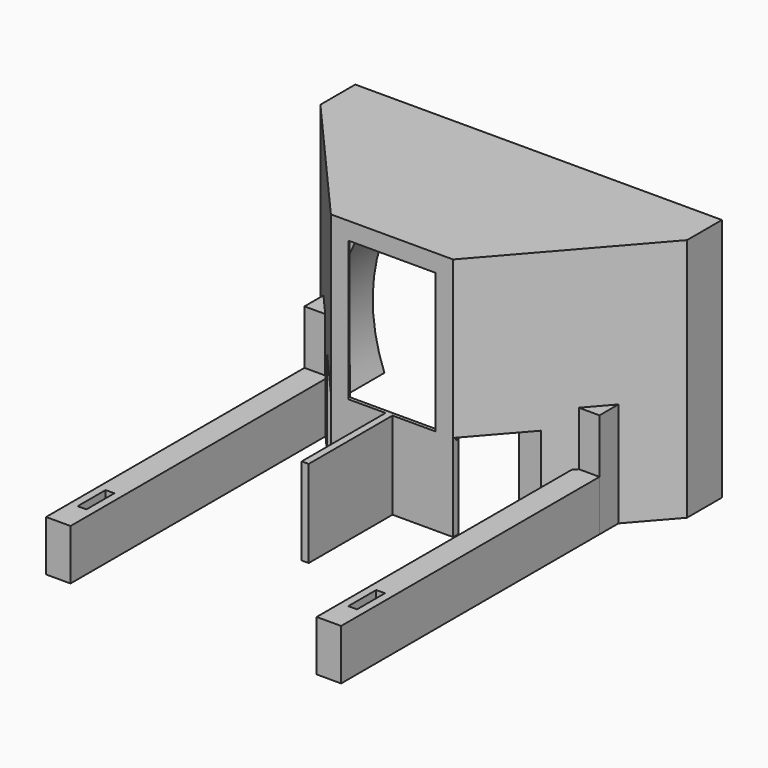
from build123d import *

# Parameters (mm, degrees)
PAD_DEPTH       = 28
SKETCH001_R     = 19
POCKET_DEPTH    = 5
POCKET001_DEPTH = 26
SKETCH003_W     = 30
SKETCH003_H     = 6
POCKET002_DEPTH = 10
SKETCH004_W     = 2.8
SKETCH004_H     = 40
PAD001_DEPTH    = 5.8
SKETCH005_W     = 2.722469
SKETCH005_H     = 3
SKETCH005_W_2   = 2.715425
PAD002_DEPTH    = 12
SKETCH006_R     = 1.6
POCKET003_DEPTH = 5
SKETCH007_W     = 1
SKETCH007_H     = 4
POCKET004_DEPTH = 6
PAD003_DEPTH    = 10
SKETCH009_W     = 14.845783
SKETCH009_H     = 0.4
POCKET005_DEPTH = 0.4


with BuildPart() as part:
    # Sketch → Pad (new body)
    with BuildSketch(Plane(origin=(0, 0, 0), x_dir=(1, 0, 0), z_dir=(0, 0, -1))):
        Polygon((-52.483848, 11.054775), (-10.483848, 11.054775), (-10.483848, 16.054775), (-24.483848, 32.054775), (-38.483848, 32.054775), (-52.483848, 16.054775), align=None)
    extrude(amount=PAD_DEPTH)

    # Sketch001 → Pocket (cut)
    with BuildSketch(Plane(origin=(0, -11.054775, 0), x_dir=(1, 0, 0), z_dir=(0, 1, 0))):
        with Locations((-31.483848, 21)):
            Circle(SKETCH001_R)
    extrude(amount=-POCKET_DEPTH, mode=Mode.SUBTRACT)

    # Sketch002 → Pocket001 (cut)
    with BuildSketch(Plane(origin=(0, 0, -28), x_dir=(1, 0, 0), z_dir=(0, 0, -1))):
        Polygon((-49.14737, 16.054775), (-36.483848, 32.054775), (-26.483848, 32.054775), (-13.820326, 16.054775), align=None)
    extrude(amount=-POCKET001_DEPTH, mode=Mode.SUBTRACT)

    # Sketch003 → Pocket002 (cut)
    with BuildSketch(Plane(origin=(0, 0, -28), x_dir=(1, 0, 0), z_dir=(0, 0, -1))):
        with Locations((-31.483848, 29.054775)):
            Rectangle(SKETCH003_W, SKETCH003_H)
    extrude(amount=-POCKET002_DEPTH, mode=Mode.SUBTRACT)

    # Sketch004 → Pad001 (new body)
    with BuildSketch(Plane(origin=(0, 0, -28), x_dir=(1, 0, 0), z_dir=(0, 0, -1))):
        with Locations((-46.98737, 40.454775)):
            Rectangle(SKETCH004_W, SKETCH004_H)
        with Locations((-15.98737, 40.454775)):
            Rectangle(SKETCH004_W, SKETCH004_H)
    extrude(amount=-PAD001_DEPTH)

    # Sketch005 → Pad002 (new body)
    with BuildSketch(Plane(origin=(0, 0, -28), x_dir=(1, 0, 0), z_dir=(0, 0, -1))):
        with Locations((-47.026135, 21.954775)):
            Rectangle(SKETCH005_W, SKETCH005_H)
        with Locations((-15.945082, 21.954775)):
            Rectangle(SKETCH005_W_2, SKETCH005_H)
    extrude(amount=-PAD002_DEPTH)

    # Sketch006 → Pocket003 (cut)
    with BuildSketch(Plane(origin=(0, -11.054775, 0), x_dir=(1, 0, 0), z_dir=(0, 1, 0))):
        with Locations((-47.483848, 4)):
            Circle(SKETCH006_R)
        with Locations((-15.483848, 4)):
            Circle(SKETCH006_R)
    extrude(amount=-POCKET003_DEPTH, mode=Mode.SUBTRACT)

    # Sketch007 → Pocket004 (cut)
    with BuildSketch(Plane(origin=(0, 0, -28), x_dir=(1, 0, 0), z_dir=(0, 0, -1))):
        with Locations((-46.98737, 55.054775)):
            Rectangle(SKETCH007_W, SKETCH007_H)
        with Locations((-15.98737, 55.054775)):
            Rectangle(SKETCH007_W, SKETCH007_H)
    extrude(amount=-POCKET004_DEPTH, mode=Mode.SUBTRACT)

    # Sketch008 → Pad003 (new body)
    with BuildSketch(Plane(origin=(0, 0, -18), x_dir=(1, 0, 0), z_dir=(0, 0, -1))):
        Polygon((-32.222141, 44.054382), (-31.422141, 44.054382), (-31.422141, 32.054775), (-24.483848, 32.054775), (-24.483848, 31.254775), (-38.483848, 31.254775), (-38.483848, 32.054775), (-32.222141, 32.054775), align=None)
    extrude(amount=PAD003_DEPTH)

    # Sketch009 → Pocket005 (cut)
    with BuildSketch(Plane(origin=(0, -31.254775, 0), x_dir=(1, 0, 0), z_dir=(0, 1, 0))):
        with Locations((-31.447088, 18.2)):
            Rectangle(SKETCH009_W, SKETCH009_H)
    extrude(amount=-POCKET005_DEPTH, mode=Mode.SUBTRACT)


solid = part.part
